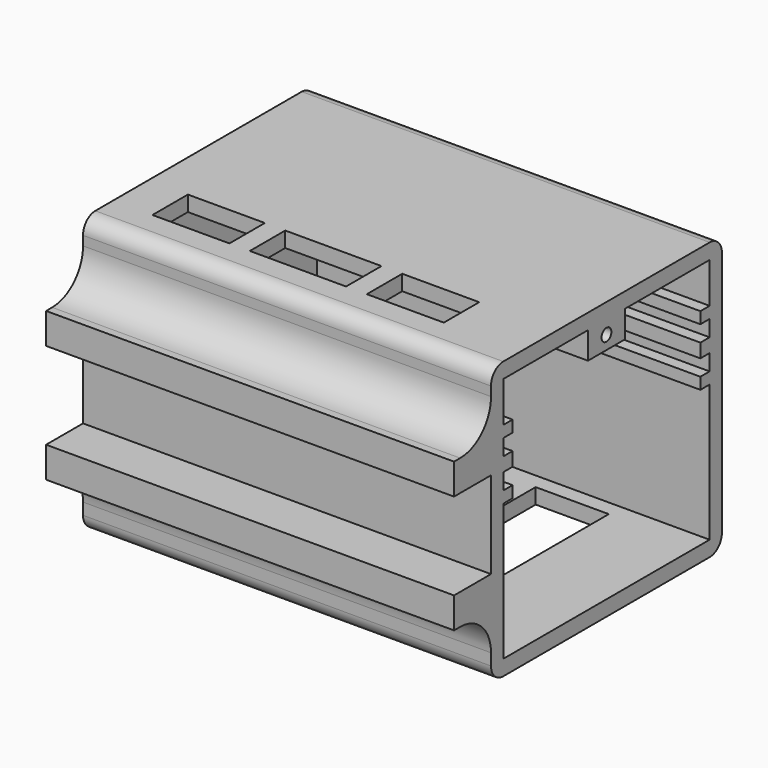
from build123d import *

# Parameters (mm, degrees)
SKETCH_W        = 53
SKETCH_H        = 37.5
SKETCH_W_2      = 49
SKETCH_H_2      = 33.5
PAD_DEPTH       = 32
SKETCH001_W     = 53
SKETCH001_H     = 37.5
PAD001_DEPTH    = 2
SKETCH002_W     = 53
SKETCH002_H     = 37.5
PAD002_DEPTH    = 2
SKETCH003_W     = 33.5
SKETCH003_H     = 32
POCKET_DEPTH    = 2
SKETCH004_W     = 10
SKETCH004_H     = 5.75
SKETCH004_W_2   = 12.5
SKETCH004_W_3   = 9.9999999999
POCKET001_DEPTH = 5
SKETCH005_W     = 51
SKETCH005_H     = 1.8
SKETCH005_H_2   = 1.5
PAD003_DEPTH    = 33.5
SKETCH006_W     = 30.5
SKETCH006_H     = 9
POCKET002_DEPTH = 51
SKETCH007_W     = 17.616245
SKETCH007_H     = 6
PAD004_DEPTH    = 5
SKETCH008_R     = 0.8
POCKET003_DEPTH = 5
SKETCH009_W     = 17.616245
SKETCH009_H     = 6
PAD005_DEPTH    = 3.5
SKETCH010_R     = 0.8
POCKET004_DEPTH = 6
CHAMFER_SIZE    = 3.499
CHAMFER001_SIZE = 4.99
FILLET_R        = 1.99
SKETCH012_W     = 53
SKETCH012_H     = 4
PAD006_DEPTH    = 6
FILLET001_R     = 5
SKETCH013_W     = 6
SKETCH013_H     = 5
POCKET005_DEPTH = 20
SKETCH014_W     = 9.5
SKETCH014_H     = 17
POCKET006_DEPTH = 5


with BuildPart() as part:
    # Sketch → Pad (new body)
    with BuildSketch(Plane.XY):
        Rectangle(SKETCH_W, SKETCH_H)
        Rectangle(SKETCH_W_2, SKETCH_H_2, mode=Mode.SUBTRACT)
    extrude(amount=PAD_DEPTH)

    # Sketch001 (on Face10 of Pad) → Pad001 (join)
    with BuildSketch(Plane.XY.offset(32)):
        Rectangle(SKETCH001_W, SKETCH001_H)
    extrude(amount=PAD001_DEPTH)

    # Sketch002 (on Face4 of Pad001) → Pad002 (join)
    with BuildSketch(Plane(origin=(0, 0, 0), x_dir=(1, 0, 0), z_dir=(0, 0, -1))):
        Rectangle(SKETCH002_W, SKETCH002_H)
    extrude(amount=PAD002_DEPTH)

    # Sketch003 (on Face3 of Pad002) → Pocket (cut)
    with BuildSketch(Plane.YZ.offset(26.5)):
        with Locations((0, 16)):
            Rectangle(SKETCH003_W, SKETCH003_H)
    extrude(amount=-POCKET_DEPTH, mode=Mode.SUBTRACT)

    # Sketch004 (on Face13 of Pocket) → Pocket001 (cut)
    with BuildSketch(Plane.XY.offset(34)):
        with Locations((-16.4, -10.975)):
            Rectangle(SKETCH004_W, SKETCH004_H)
        with Locations((-2.5, -10.975)):
            Rectangle(SKETCH004_W_2, SKETCH004_H)
        with Locations((11.45, -10.975)):
            Rectangle(SKETCH004_W_3, SKETCH004_H)
    extrude(amount=-POCKET001_DEPTH, mode=Mode.SUBTRACT)

    # Sketch005 (on Face36 of Pocket001) → Pad003 (join)
    with BuildSketch(Plane(origin=(0, -16.75, 0), x_dir=(-1, 0, 0), z_dir=(0, 1, 0))):
        with Locations((-1, 22.25)):
            Rectangle(SKETCH005_W, SKETCH005_H)
        with Locations((-1, 26)):
            Rectangle(SKETCH005_W, SKETCH005_H_2)
        with Locations((-1, 18.5)):
            Rectangle(SKETCH005_W, SKETCH005_H_2)
    extrude(amount=PAD003_DEPTH)

    # Sketch006 (on Face11 of Pad003) → Pocket002 (cut)
    with BuildSketch(Plane.YZ.offset(26.5)):
        with Locations((0, 22.25)):
            Rectangle(SKETCH006_W, SKETCH006_H)
    extrude(amount=-POCKET002_DEPTH, mode=Mode.SUBTRACT)

    # Sketch007 (on Face57 of Pocket002) → Pad004 (join)
    with BuildSketch(Plane.XY):
        with Locations((17.6918775, 0)):
            Rectangle(SKETCH007_W, SKETCH007_H)
    extrude(amount=PAD004_DEPTH)

    # Sketch008 (on Face24 of Pad004) → Pocket003 (cut)
    with BuildSketch(Plane.YZ.offset(26.5)):
        with Locations((0, 2.5)):
            Circle(SKETCH008_R)
    extrude(amount=-POCKET003_DEPTH, mode=Mode.SUBTRACT)

    # Sketch009 (on Face65 of Pocket003) → Pad005 (join)
    with BuildSketch(Plane(origin=(0, 0, 32), x_dir=(1, 0, 0), z_dir=(0, 0, -1))):
        with Locations((17.6918775, 0)):
            Rectangle(SKETCH009_W, SKETCH009_H)
    extrude(amount=PAD005_DEPTH)

    # Sketch010 (on Face41 of Pad005) → Pocket004 (cut)
    with BuildSketch(Plane.YZ.offset(26.5)):
        with Locations((0, 30.25)):
            Circle(SKETCH010_R)
    extrude(amount=-POCKET004_DEPTH, mode=Mode.SUBTRACT)

    # Chamfer
    chamfer_edges = [part.edges().sort_by_distance(p)[0] for p in [
        (8.883755, 0, 28.5),
    ]]
    chamfer(chamfer_edges, length=CHAMFER_SIZE)

    # Chamfer001
    chamfer001_edges = [part.edges().sort_by_distance(p)[0] for p in [
        (8.883755, 0, 5),
    ]]
    chamfer(chamfer001_edges, length=CHAMFER001_SIZE)

    # Fillet
    fillet_edges = [part.edges().sort_by_distance(p)[0] for p in [
        (0, -18.75, 34),
        (0, 18.75, 34),
        (0, 18.75, -2),
        (0, -18.75, -2),
    ]]
    fillet(fillet_edges, radius=FILLET_R)

    # Sketch012 → Pad006 (join)
    with BuildSketch(Plane.XZ.offset(18.75)):
        with Locations((0, 23.8)):
            Rectangle(SKETCH012_W, SKETCH012_H)
        with Locations((0, 8.5)):
            Rectangle(SKETCH012_W, SKETCH012_H)
    extrude(amount=PAD006_DEPTH)

    # Fillet001
    fillet001_edges = [part.edges().sort_by_distance(p)[0] for p in [
        (0, -18.75, 6.5),
        (0, -18.75, 25.8),
    ]]
    fillet(fillet001_edges, radius=FILLET001_R)

    # Sketch013 (on Face26 of Fillet001) → Pocket005 (cut)
    with BuildSketch(Plane.YZ.offset(26.5)):
        with Locations((0, 2.5)):
            Rectangle(SKETCH013_W, SKETCH013_H)
    extrude(amount=-POCKET005_DEPTH, mode=Mode.SUBTRACT)

    # Sketch014 (on Face23 of Pocket005) → Pocket006 (cut)
    with BuildSketch(Plane(origin=(0, 0, -2), x_dir=(1, 0, 0), z_dir=(0, 0, -1))):
        with Locations((10.25, -6.25)):
            Rectangle(SKETCH014_W, SKETCH014_H)
    extrude(amount=-POCKET006_DEPTH, mode=Mode.SUBTRACT)


solid = part.part
